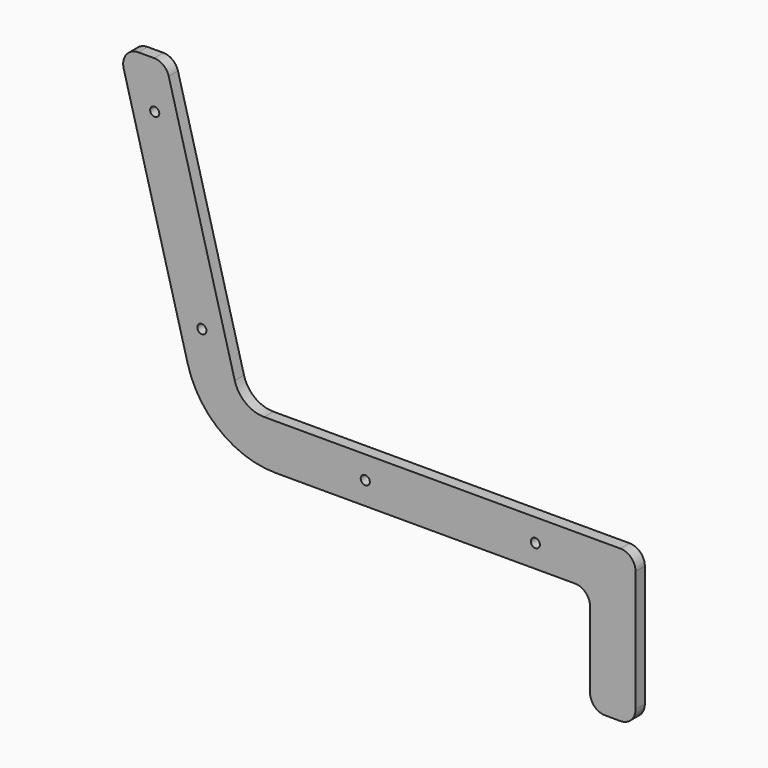
from build123d import *

# Parameters (mm, degrees)
F0_R     = 7.5
F1_DEPTH = 19.05


with BuildPart() as f1:
    # F0 (on Front) → F1 (new body)
    with BuildSketch(Plane.XZ):
        with BuildLine():
            ThreePointArc((-25, 0), (-7.32233, 7.32233), (0, 25))
            Line((0, 25), (0, 225))
            ThreePointArc((0, 225), (-7.32233, 242.67767), (-25, 250))
            Line((-25, 250), (-611.633651, 250))
            ThreePointArc((-611.633651, 250), (-642.071722, 260.332333), (-659.929942, 287.059048))
            Line((-659.929942, 287.059048), (-768.613197, 692.670476))
            ThreePointArc((-768.613197, 692.670476), (-777.542307, 706.033834), (-792.761342, 711.2))
            Line((-792.761342, 711.2), (-818.643247, 711.2))
            ThreePointArc((-818.643247, 711.2), (-838.47708, 701.419036), (-842.791392, 679.729524))
            Line((-842.791392, 679.729524), (-737.33935, 286.177143))
            ThreePointArc((-737.33935, 286.177143), (-683.76469, 205.996999), (-592.450476, 175))
            Line((-592.450476, 175), (-100, 175))
            ThreePointArc((-100, 175), (-82.32233, 167.67767), (-75, 150))
            Line((-75, 150), (-75, 25))
            ThreePointArc((-75, 25), (-67.67767, 7.32233), (-50, 0))
            Line((-50, 0), (-25, 0))
        make_face()
        with Locations((-714.02, 344.03702)):
            Circle(F0_R, mode=Mode.SUBTRACT)
        with Locations((-445, 212.5)):
            Circle(F0_R, mode=Mode.SUBTRACT)
        with Locations((-165, 212.5)):
            Circle(F0_R, mode=Mode.SUBTRACT)
        with Locations((-791.665714, 633.814767)):
            Circle(F0_R, mode=Mode.SUBTRACT)
    extrude(amount=F1_DEPTH)


solid = f1.part
